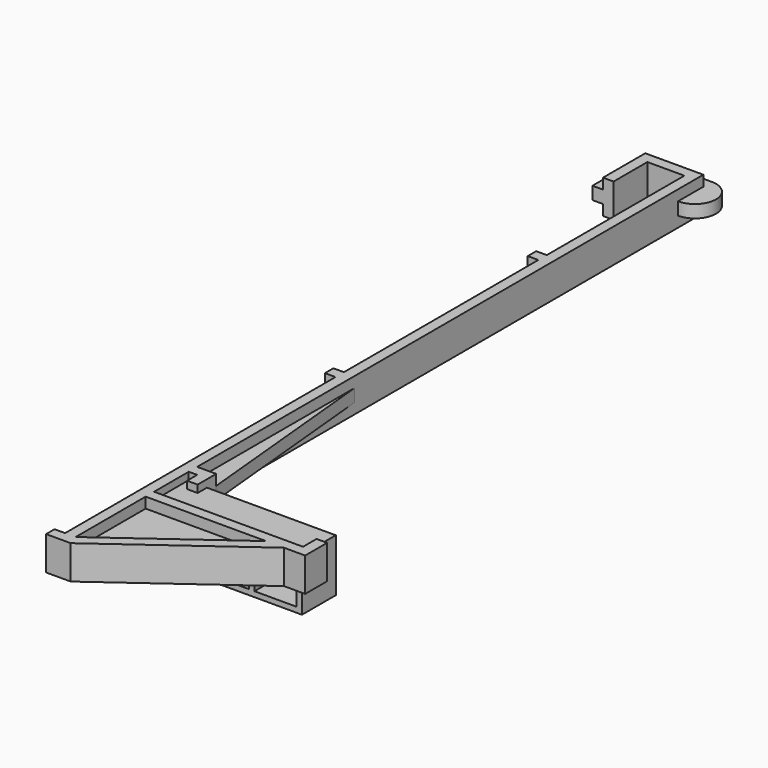
from build123d import *

# Parameters (mm, degrees)
F1_DEPTH = 10.16
F2_START = 3.175
F0_W     = 3.175
F0_H     = 51.6942042675
F0_H_2   = 101.6
F0_H_3   = 73.025
F2_DEPTH = 3.81
F4_DEPTH = 12.7


with BuildPart() as f1:
    # F0 (on Top) → F1 (new body)
    with BuildSketch(Plane.XY):
        Polygon((-17.4625, 206.375), (-17.4625, 190.5), (-14.2875, 190.5), (-14.2875, 203.2), (-6.35, 203.2), (-3.175, 203.2), (-3.175, 151.5057957325), (-6.35, 151.5057957325), (-6.35, 148.3307957325), (-3.175, 148.3307957325), (-3.175, 75.3057957325), (-6.35, 75.3057957325), (-6.35, 72.1307957325), (-3.175, 72.1307957325), (-3.175, -29.4692042675), (-6.35, -29.4692042675), (-6.35, -32.6442042675), (1.0316200355, -32.6442042675), (41.5925, -3.175), (47.9425, -3.175), (47.9425, 5.08), (44.7675, 5.08), (44.7675, 0), (0, 0), (0, 13.0175), (2.54, 13.0175), (2.54, 9.2075), (5.715, 9.2075), (5.715, 16.1925), (0, 16.1925), (0, 75.3057957325), (0, 196.85), (0, 206.375), align=None)
        Polygon((0, -29.4692042675), (0, -3.175), (36.190867367, -3.175), align=None, mode=Mode.SUBTRACT)
    extrude(amount=F1_DEPTH)

    # F0 (on Top) → F2 (join)
    with BuildSketch(Plane.XY.offset(F2_START)):
        Polygon((-20.6375, 190.5), (-17.4625, 190.5), (-17.4625, 206.375), (0, 206.375), (0, 209.55), (-20.6375, 209.55), align=None)
        with Locations((-4.7625, 177.3528978662)):
            Rectangle(F0_W, F0_H)
        with Locations((-4.7625, 21.3307957325)):
            Rectangle(F0_W, F0_H_2)
        Polygon((5.715, 16.1925), (0, 75.3057957325), (0, 16.1925), align=None)
        Polygon((36.190867367, -3.175), (0, -3.175), (0, -29.4692042675), align=None)
        with BuildLine():
            Line((0, 209.55), (0, 206.375))
            Line((0, 206.375), (0, 196.85))
            ThreePointArc((0, 196.85), (6.35, 203.2), (0, 209.55))
        make_face()
        with Locations((-4.7625, 111.8182957325)):
            Rectangle(F0_W, F0_H_3)
    extrude(amount=F2_DEPTH)


with BuildPart() as f4:
    # F3 (on face) → F4 (new body)
    with BuildSketch(Plane(origin=(0, 0, 0), x_dir=(-1, 0, 0), z_dir=(0, 1, 0))):
        Polygon((0, -7.9375), (0, 0), (-1.5875, 0), (-1.5875, -6.35), (-14.2875, -6.35), (-14.2875, 0), (-15.875, 0), (-15.875, -6.35), (-28.575, -6.35), (-28.575, 0), (-30.1625, 0), (-30.1625, -6.35), (-42.8625, -6.35), (-42.8625, 0), (-44.45, 0), (-44.45, -7.9375), align=None)
        Polygon((0, 0), (0, 7.9375), (-44.45, 7.9375), (-44.45, 0), (-42.8625, 0), (-42.8625, 6.35), (-30.1625, 6.35), (-30.1625, 0), (-28.575, 0), (-28.575, 6.35), (-15.875, 6.35), (-15.875, 0), (-14.2875, 0), (-14.2875, 6.35), (-1.5875, 6.35), (-1.5875, 0), align=None)
    extrude(amount=F4_DEPTH)


solid = Compound([f1.part, f4.part])
